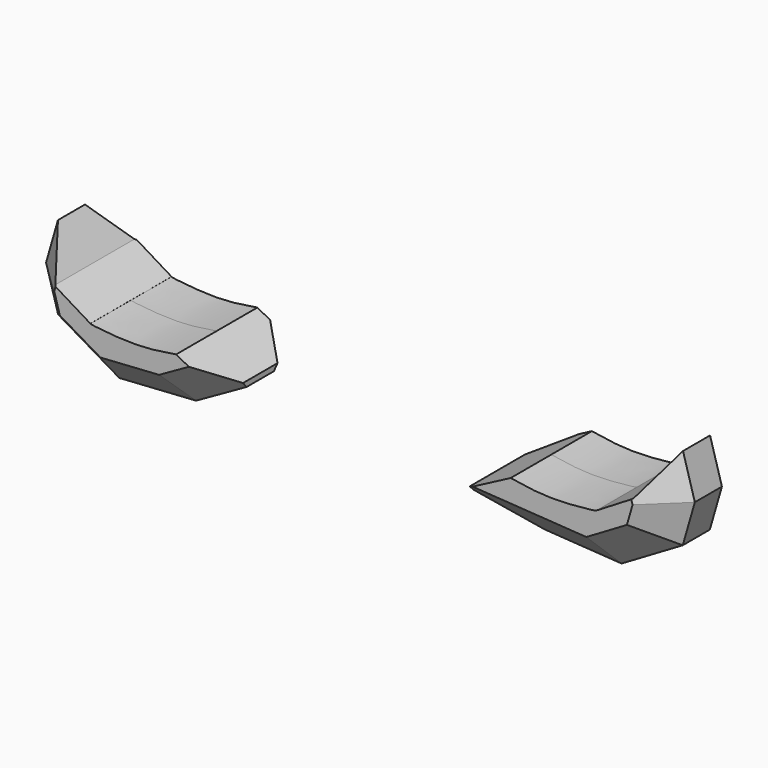
from build123d import *

# Parameters (mm, degrees)
F1_DEPTH = 7.62
F2_DEPTH = 7.62
F4_DEPTH = 25.4
F5_SIZE  = 5.08
F6_SIZE  = 5.08


with BuildPart() as f1:
    # F0 (on Front) → F1 (new body)
    with BuildSketch(Plane.XZ):
        with BuildLine():
            Line((8.2811145112, 1.2285960838), (0, 15.4874408618))
            Line((0, 15.4874408618), (-8.2811145112, 1.2285960838))
            Line((-8.2811145112, 1.2285960838), (-12.3727992177, 8.1617282704))
            Line((-12.3727992177, 8.1617282704), (-11.9023714215, 16.1495022476))
            add(Edge.make_bspline(
                [(-11.9023714215, 16.1495022476), (-13.1613517272, 16.6548575419), (-15.5670384726, 17.6205013473), (-17.5333922375, 20.1015797679), (-20.5609874273, 22.6867834573), (-21.4873396412, 24.6462285212), (-22.7265176962, 26.164892306), (-23.3956482261, 26.9849393517)],
                knots=[0, 0, 0, 0, 0.2204500858, 0.4212407827, 0.6411829959, 0.8062462362, 1, 1, 1, 1], degree=3))
            Line((-23.3956482261, 26.9849393517), (-23.3956482261, 30.6120049208))
            Line((-23.3956482261, 30.6120049208), (-28.4874904901, 20.2190671116))
            add(Edge.make_bspline(
                [(-28.4874904901, 20.2190671116), (-26.7351245713, 18.6815123537), (-23.471648253, 15.8180844094), (-18.698489342, 12.765512723), (-18.619259599, 5.307731901), (-18.5713469982, 0.7977882633)],
                knots=[0, 0, 0, 0, 0.3143060786, 0.5853403295, 1, 1, 1, 1], degree=3))
            Line((-18.5713469982, 0.7977882633), (-25.1141153276, 4.229309503))
            add(Edge.make_bspline(
                [(-25.1141153276, 4.229309503), (-27.2113543103, 3.8803000814), (-31.2175880029, 3.2136076751), (-38.0307467331, 4.0171950636), (-37.9710688228, 4.111548475), (-37.9713065922, 4.1118925437)],
                knots=[0, 0, 0, 0, 0.5026791859, 0.9602388224, 0.9760311652, 0.9760311652, 0.9760311652, 0.9760311652], degree=3))
            Line((-37.9713065922, 4.1118925437), (-43.4008166194, 7.4114357121))
            Line((-43.4008166194, 7.4114357121), (-46.9205416739, 12.8263989463))
            Line((-46.9205416739, 12.8263989463), (-48.6997440457, 6.6378694028))
            Line((-48.6997440457, 6.6378694028), (-46.8862317502, 0.3569243418))
            Line((-46.8862317502, 0.3569243418), (-50.1090995967, 2.34253495))
            Line((-50.1090995967, 2.34253495), (-54.2478188872, 9.5133557916))
            Line((-54.2478188872, 9.5133557916), (-56.9247491658, 21.5117353946))
            Line((-56.9247491658, 21.5117353946), (-60.4143179953, 10.0391805172))
            Line((-60.4143179953, 10.0391805172), (-59.0758509934, -0.716338749))
            Line((-59.0758509934, -0.716338749), (-61.4659674466, 1.1479511159))
            Line((-61.4659674466, 1.1479511159), (-65.5291676521, 8.0792857334))
            Line((-65.5291676521, 8.0792857334), (-66.8426156044, 23.612709716))
            Line((-66.8426156044, 23.612709716), (-70.5394372344, 10.0391805172))
            Line((-70.5394372344, 10.0391805172), (-70.5394372344, -4.383392632))
            Line((-70.5394372344, -4.383392632), (-64.0365630388, -13.9240529388))
            Line((-64.0365630388, -13.9240529388), (-58.2605600357, -17.2362215817))
            Line((-58.2605600357, -17.2362215817), (-57.4691556394, -21.3832873851))
            Line((-57.4691556394, -21.3832873851), (-50.0076673925, -19.3392392248))
            Line((-50.0076673925, -19.3392392248), (-43.4008166194, -18.7325309962))
            Line((-43.4008166194, -18.7325309962), (-31.6388532519, -30.0529096276))
            Line((-31.6388532519, -30.0529096276), (-30.9283062816, -21.5263534337))
            Line((-30.9283062816, -21.5263534337), (-24.7964542359, -15.9849915653))
            Line((-24.7964542359, -15.9849915653), (-12.4508133158, -11.1685302109))
            Line((-12.4508133158, -11.1685302109), (-2.8095340822, -10.3738503531))
            Line((-2.8095340822, -10.3738503531), (0, -15.2332289144))
            Line((0, -15.2332289144), (2.8095340822, -10.3738503531))
            Line((2.8095340822, -10.3738503531), (12.4508133158, -11.1685302109))
            Line((12.4508133158, -11.1685302109), (24.7964542359, -15.9849915653))
            Line((24.7964542359, -15.9849915653), (30.9283062816, -21.5263534337))
            Line((30.9283062816, -21.5263534337), (31.6388532519, -30.0529096276))
            Line((31.6388532519, -30.0529096276), (43.4008166194, -18.7325309962))
            Line((43.4008166194, -18.7325309962), (50.0076673925, -19.3392392248))
            Line((50.0076673925, -19.3392392248), (57.4691556394, -21.3832873851))
            Line((57.4691556394, -21.3832873851), (58.2605600357, -17.2362215817))
            Line((58.2605600357, -17.2362215817), (64.0365630388, -13.9240529388))
            Line((64.0365630388, -13.9240529388), (70.5394372344, -4.383392632))
            Line((70.5394372344, -4.383392632), (70.5394372344, 10.0391805172))
            Line((70.5394372344, 10.0391805172), (66.8426156044, 23.612709716))
            Line((66.8426156044, 23.612709716), (65.5291676521, 8.0792857334))
            Line((65.5291676521, 8.0792857334), (61.4659674466, 1.1479511159))
            Line((61.4659674466, 1.1479511159), (59.0758509934, -0.716338749))
            Line((59.0758509934, -0.716338749), (60.4143179953, 10.0391805172))
            Line((60.4143179953, 10.0391805172), (56.9247491658, 21.5117353946))
            Line((56.9247491658, 21.5117353946), (54.2478188872, 9.5133557916))
            Line((54.2478188872, 9.5133557916), (50.1090995967, 2.34253495))
            Line((50.1090995967, 2.34253495), (46.8862317502, 0.3569243418))
            Line((46.8862317502, 0.3569243418), (48.6997440457, 6.6378694028))
            Line((48.6997440457, 6.6378694028), (46.9205416739, 12.8263989463))
            Line((46.9205416739, 12.8263989463), (43.4008166194, 7.4114357121))
            Line((43.4008166194, 7.4114357121), (37.9713065922, 4.1118925437))
            add(Edge.make_bspline(
                [(25.1141153276, 4.229309503), (27.2113543103, 3.8803000814), (31.2175880029, 3.2136076751), (38.0307467331, 4.0171950636), (37.9710688228, 4.111548475), (37.9713065922, 4.1118925437)],
                knots=[0, 0, 0, 0, 0.5026791859, 0.9602388224, 0.9760311652, 0.9760311652, 0.9760311652, 0.9760311652], degree=3))
            Line((25.1141153276, 4.229309503), (18.5713469982, 0.7977882633))
            add(Edge.make_bspline(
                [(28.4874904901, 20.2190671116), (26.7351245713, 18.6815123537), (23.471648253, 15.8180844094), (18.698489342, 12.765512723), (18.619259599, 5.307731901), (18.5713469982, 0.7977882633)],
                knots=[0, 0, 0, 0, 0.3143060786, 0.5853403295, 1, 1, 1, 1], degree=3))
            Line((28.4874904901, 20.2190671116), (23.3956482261, 30.6120049208))
            Line((23.3956482261, 30.6120049208), (23.3956482261, 26.9849393517))
            add(Edge.make_bspline(
                [(11.9023714215, 16.1495022476), (13.1613517272, 16.6548575419), (15.5670384726, 17.6205013473), (17.5333922375, 20.1015797679), (20.5609874273, 22.6867834573), (21.4873396412, 24.6462285212), (22.7265176962, 26.164892306), (23.3956482261, 26.9849393517)],
                knots=[0, 0, 0, 0, 0.2204500858, 0.4212407827, 0.6411829959, 0.8062462362, 1, 1, 1, 1], degree=3))
            Line((11.9023714215, 16.1495022476), (12.3727992177, 8.1617282704))
            Line((12.3727992177, 8.1617282704), (8.2811145112, 1.2285960838))
        make_face()
    extrude(amount=F1_DEPTH)

    # F2 (add): a face of the model
    f2_faces = [f1.faces().sort_by_distance(p)[0] for p in [
        (0, 0, -2.9396699917),
    ]]
    extrude(f2_faces, amount=F2_DEPTH)

    # F3 (on face) → F4 (cut)
    with BuildSketch(Plane.XZ.offset(7.62)):
        with BuildLine():
            Line((50.1090995967, 2.34253495), (46.8862317502, 0.3569243418))
            Line((46.8862317502, 0.3569243418), (37.704244256, -5.042350851))
            Line((37.704244256, -5.042350851), (26.178041473, -4.2952820659))
            Line((26.178041473, -4.2952820659), (18.5713469982, 0))
            Line((18.5713469982, 0), (18.5713469982, 0.7977882633))
            add(Edge.make_bspline(
                [(28.4874904901, 20.2190671116), (26.7351245713, 18.6815123537), (23.471648253, 15.8180844094), (18.698489342, 12.765512723), (18.619259599, 5.307731901), (18.5713469982, 0.7977882633)],
                knots=[0, 0, 0, 0, 0.3143060786, 0.5853403295, 1, 1, 1, 1], degree=3))
            Line((28.4874904901, 20.2190671116), (23.3956482261, 30.6120049208))
            Line((23.3956482261, 30.6120049208), (23.3956482261, 26.9849393517))
            add(Edge.make_bspline(
                [(11.9023714215, 16.1495022476), (13.1613517272, 16.6548575419), (15.5670384726, 17.6205013473), (17.5333922375, 20.1015797679), (20.5609874273, 22.6867834573), (21.4873396412, 24.6462285212), (22.7265176962, 26.164892306), (23.3956482261, 26.9849393517)],
                knots=[0, 0, 0, 0, 0.2204500858, 0.4212407827, 0.6411829959, 0.8062462362, 1, 1, 1, 1], degree=3))
            Line((11.9023714215, 16.1495022476), (12.3727992177, 8.1617282704))
            Line((12.3727992177, 8.1617282704), (11.8300747126, 1.1479511159))
            Line((11.8300747126, 1.1479511159), (14.1611397266, -7.0250043646))
            Line((14.1611397266, -7.0250043646), (21.2970543653, -9.0706339106))
            Line((21.2970543653, -9.0706339106), (24.7849505395, -10.6449779123))
            Line((24.7849505395, -10.6449779123), (37.9713065922, -13.2080012186))
            Line((37.9713065922, -13.2080012186), (38.8208404183, -12.7084506676))
            Line((38.8208404183, -12.7084506676), (50.1090995967, -9.5750857145))
            Line((50.1090995967, -9.5750857145), (54.7299973552, -7.0923368166))
            Line((54.7299973552, -7.0923368166), (59.0758509934, -0.716338749))
            Line((59.0758509934, -0.716338749), (60.4143179953, 10.0391805172))
            Line((60.4143179953, 10.0391805172), (56.9247491658, 21.5117353946))
            Line((56.9247491658, 21.5117353946), (54.2478188872, 9.5133557916))
            Line((54.2478188872, 9.5133557916), (50.1090995967, 2.34253495))
        make_face()
        Polygon((61.4659674466, 1.1479511159), (59.0758509934, -0.716338749), (54.7299973552, -7.0923368166), (50.1090995967, -9.5750857145), (38.8208404183, -12.7084506676), (37.9713065922, -13.2080012186), (24.7849505395, -10.6449779123), (21.2970543653, -9.0706339106), (14.1611397266, -7.0250043646), (11.8300747126, 1.1479511159), (12.3727992177, 8.1617282704), (8.2811145112, 1.2285960838), (9.0035646737, 0), (2.8095340822, -10.3738503531), (12.4508133158, -11.1685302109), (24.7964542359, -15.9849915653), (30.9283062816, -21.5263534337), (31.6388532519, -30.0529096276), (43.4008166194, -18.7325309962), (50.0076673925, -19.3392392248), (57.4691556394, -21.3832873851), (58.2605600357, -17.2362215817), (64.0365630388, -13.9240529388), (70.5394372344, -4.383392632), (70.5394372344, 10.0391805172), (66.8426156044, 23.612709716), (65.5291676521, 8.0792857334), align=None)
        Polygon((9.0035646737, 0), (8.2811145112, 1.2285960838), (0, 15.4874408618), (-8.2811145112, 1.2285960838), (-9.0035646737, 0), (-2.8095340822, -10.3738503531), (0, -15.2332289144), (2.8095340822, -10.3738503531), align=None)
        Polygon((-9.0035646737, 0), (-8.2811145112, 1.2285960838), (-12.3727992177, 8.1617282704), (-11.8300747126, 1.1479511159), (-14.1611397266, -7.0250043646), (-21.2970543653, -9.0706339106), (-24.7849505395, -10.6449779123), (-37.9713065922, -13.2080012186), (-38.8208404183, -12.7084506676), (-50.1090995967, -9.5750857145), (-54.7299973552, -7.0923368166), (-59.0758509934, -0.716338749), (-61.4659674466, 1.1479511159), (-65.5291676521, 8.0792857334), (-66.8426156044, 23.612709716), (-70.5394372344, 10.0391805172), (-70.5394372344, -4.383392632), (-64.0365630388, -13.9240529388), (-58.2605600357, -17.2362215817), (-57.4691556394, -21.3832873851), (-50.0076673925, -19.3392392248), (-43.4008166194, -18.7325309962), (-31.6388532519, -30.0529096276), (-30.9283062816, -21.5263534337), (-24.7964542359, -15.9849915653), (-12.4508133158, -11.1685302109), (-2.8095340822, -10.3738503531), align=None)
        with BuildLine():
            Line((-11.8300747126, 1.1479511159), (-12.3727992177, 8.1617282704))
            Line((-12.3727992177, 8.1617282704), (-11.9023714215, 16.1495022476))
            add(Edge.make_bspline(
                [(-11.9023714215, 16.1495022476), (-13.1613517272, 16.6548575419), (-15.5670384726, 17.6205013473), (-17.5333922375, 20.1015797679), (-20.5609874273, 22.6867834573), (-21.4873396412, 24.6462285212), (-22.7265176962, 26.164892306), (-23.3956482261, 26.9849393517)],
                knots=[0, 0, 0, 0, 0.2204500858, 0.4212407827, 0.6411829959, 0.8062462362, 1, 1, 1, 1], degree=3))
            Line((-23.3956482261, 26.9849393517), (-23.3956482261, 30.6120049208))
            Line((-23.3956482261, 30.6120049208), (-28.4874904901, 20.2190671116))
            add(Edge.make_bspline(
                [(-28.4874904901, 20.2190671116), (-26.7351245713, 18.6815123537), (-23.471648253, 15.8180844094), (-18.698489342, 12.765512723), (-18.619259599, 5.307731901), (-18.5713469982, 0.7977882633)],
                knots=[0, 0, 0, 0, 0.3143060786, 0.5853403295, 1, 1, 1, 1], degree=3))
            Line((-18.5713469982, 0.7977882633), (-18.5713469982, 0))
            Line((-18.5713469982, 0), (-26.178041473, -4.2952820659))
            Line((-26.178041473, -4.2952820659), (-37.704244256, -5.042350851))
            Line((-37.704244256, -5.042350851), (-46.8862317502, 0.3569243418))
            Line((-46.8862317502, 0.3569243418), (-50.1090995967, 2.34253495))
            Line((-50.1090995967, 2.34253495), (-54.2478188872, 9.5133557916))
            Line((-54.2478188872, 9.5133557916), (-56.9247491658, 21.5117353946))
            Line((-56.9247491658, 21.5117353946), (-60.4143179953, 10.0391805172))
            Line((-60.4143179953, 10.0391805172), (-59.0758509934, -0.716338749))
            Line((-59.0758509934, -0.716338749), (-54.7299973552, -7.0923368166))
            Line((-54.7299973552, -7.0923368166), (-50.1090995967, -9.5750857145))
            Line((-50.1090995967, -9.5750857145), (-38.8208404183, -12.7084506676))
            Line((-38.8208404183, -12.7084506676), (-37.9713065922, -13.2080012186))
            Line((-37.9713065922, -13.2080012186), (-24.7849505395, -10.6449779123))
            Line((-24.7849505395, -10.6449779123), (-21.2970543653, -9.0706339106))
            Line((-21.2970543653, -9.0706339106), (-14.1611397266, -7.0250043646))
            Line((-14.1611397266, -7.0250043646), (-11.8300747126, 1.1479511159))
        make_face()
    extrude(amount=-F4_DEPTH, mode=Mode.SUBTRACT)

    # F5
    f5_edges = [f1.edges().sort_by_distance(p)[0] for p in [
        (31.941143, -7.62, -4.668816),
        (42.295238, -7.62, -2.342713),
        (47.792988, -7.62, 3.497397),
        (47.810143, -7.62, 9.732134),
        (-22.374694, -7.62, -2.147641),
        (-31.941143, -7.62, -4.668816),
        (-42.295238, -7.62, -2.342713),
        (-47.792988, -7.62, 3.497397),
        (-47.810143, -7.62, 9.732134),
    ]]
    chamfer(f5_edges, length=F5_SIZE)

    # F6
    f6_edges = [f1.edges().sort_by_distance(p)[0] for p in [
        (-47.810143, 7.62, 9.732134),
        (-47.792988, 7.62, 3.497397),
        (-42.295238, 7.62, -2.342713),
        (-31.941143, 7.62, -4.668816),
        (-22.374694, 7.62, -2.147641),
        (22.374694, 7.62, -2.147641),
        (31.941143, 7.62, -4.668816),
        (42.295238, 7.62, -2.342713),
        (47.792988, 7.62, 3.497397),
        (47.810143, 7.62, 9.732134),
    ]]
    chamfer(f6_edges, length=F6_SIZE)


solid = f1.part
